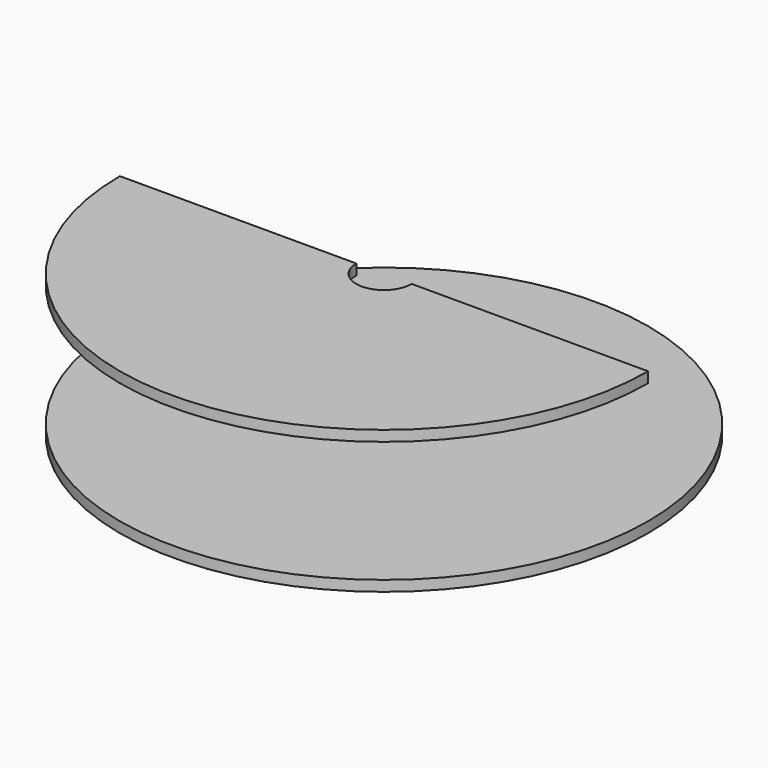
from build123d import *

# Parameters (mm, degrees)
F3_DEPTH = 2
F4_DEPTH = 2


with BuildPart() as f3:
    # F2 (on offset) → F3 (new body)
    with BuildSketch(Plane.XY.offset(25)):
        with BuildLine():
            ThreePointArc((5.25, 0), (0, -5.25), (-5.25, 0))
            Line((-5.25, 0), (-50, 0))
            ThreePointArc((-50, 0), (0, -50), (50, 0))
            Line((50, 0), (5.25, 0))
        make_face()
    extrude(amount=F3_DEPTH)


with BuildPart() as f4:
    # F0 (on Top) → F4 (new body)
    with BuildSketch(Plane.XY):
        with BuildLine():
            Line((5.25, 0), (50, 0))
            ThreePointArc((50, 0), (0, 50), (-50, 0))
            Line((-50, 0), (-5.25, 0))
            ThreePointArc((-5.25, 0), (0, 5.25), (5.25, 0))
        make_face()
        with BuildLine():
            ThreePointArc((-50, 0), (0, -50), (50, 0))
            Line((50, 0), (5.25, 0))
            ThreePointArc((5.25, 0), (0, -5.25), (-5.25, 0))
            Line((-5.25, 0), (-50, 0))
        make_face()
    extrude(amount=F4_DEPTH)


solid = Compound([f3.part, f4.part])
